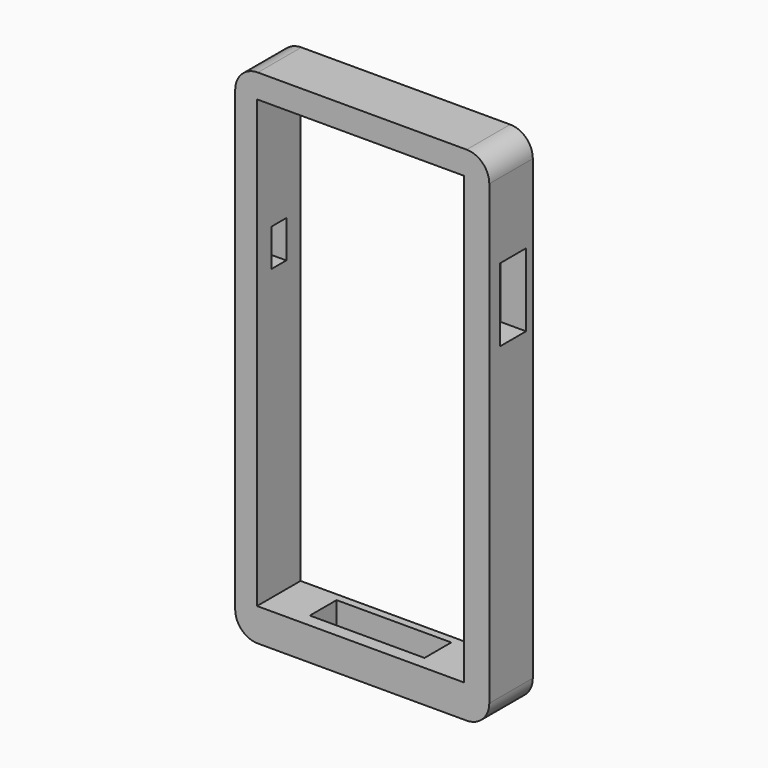
from build123d import *

# Parameters (mm, degrees)
F1_DEPTH  = 15.24
F4_DEPTH  = 25.4
F5_W      = 2.5342174816
F5_H      = 10.4648
F5_W_2    = 2.6317641129
F6_DEPTH  = 25.4
F8_DEPTH  = 25.4
F9_W      = 32.1324085817
F9_H      = 9.3754695263
F10_DEPTH = 25.4


with BuildPart() as f1:
    # F0 (on Front) → F1 (new body)
    with BuildSketch(Plane.XZ):
        with BuildLine():
            ThreePointArc((-47.0203304827, 93.7563699834), (-51.5104585433, 91.896498044), (-53.3703304827, 87.4063699834))
            Line((-53.3703304827, 87.4063699834), (-53.3703304827, 75.7731699834))
            Line((-53.3703304827, 75.7731699834), (-53.3703304827, -40.7366300166))
            ThreePointArc((-53.3703304827, -40.7366300166), (-51.5104585433, -45.2267580771), (-47.0203304827, -47.0866300166))
            Line((-47.0203304827, -47.0866300166), (11.4758695173, -47.0866300166))
            ThreePointArc((11.4758695173, -47.0866300166), (15.9659975778, -45.2267580771), (17.8258695173, -40.7366300166))
            Line((17.8258695173, -40.7366300166), (17.8258695173, 87.4063699834))
            ThreePointArc((17.8258695173, 87.4063699834), (15.9659975778, 91.896498044), (11.4758695173, 93.7563699834))
            Line((11.4758695173, 93.7563699834), (-47.0203304827, 93.7563699834))
        make_face()
    extrude(amount=F1_DEPTH)

    # F3 (on face) → F4 (cut)
    with BuildSketch(Plane.XZ.offset(15.24)):
        Polygon((10.6684593484, 87.0597213507), (-47.2460240126, 87.0597213507), (10.6684593484, -37.9136353731), align=None)
        Polygon((10.6684593484, -37.9136353731), (-47.2460240126, 87.0597213507), (-47.2460240126, -35.696811974), align=None)
        Polygon((-47.2460240126, -37.9136353731), (10.6684593484, -37.9136353731), (-47.2460240126, -35.696811974), align=None)
    extrude(amount=-F4_DEPTH, mode=Mode.SUBTRACT)

    # F5 (on face) → F6 (cut)
    with BuildSketch(Plane(origin=(-53.3703304827, 0, 0), x_dir=(0, -1, 0), z_dir=(-1, 0, 0))):
        with Locations((8.8871087408, 48.3919699834)):
            Rectangle(F5_W, F5_H)
        with Locations((6.3041179436, 48.3919699834)):
            Rectangle(F5_W_2, F5_H)
    extrude(amount=-F6_DEPTH, mode=Mode.SUBTRACT)

    # F7 (on face) → F8 (cut)
    with BuildSketch(Plane.YZ.offset(17.8258695173)):
        Polygon((-2.3553799838, 66.2608699834), (-7.62, 66.2608699834), (-11.4997718483, 66.2608699834), (-11.4997718483, 45.7714051008), (-2.3553799838, 45.7714051008), align=None)
    extrude(amount=-F8_DEPTH, mode=Mode.SUBTRACT)

    # F9 (on face) → F10 (cut)
    with BuildSketch(Plane(origin=(0, 0, -47.0866300166), x_dir=(1, 0, 0), z_dir=(0, 0, -1))):
        with Locations((-19.3419498391, 6.8665045546)):
            Rectangle(F9_W, F9_H)
    extrude(amount=-F10_DEPTH, mode=Mode.SUBTRACT)


solid = f1.part
